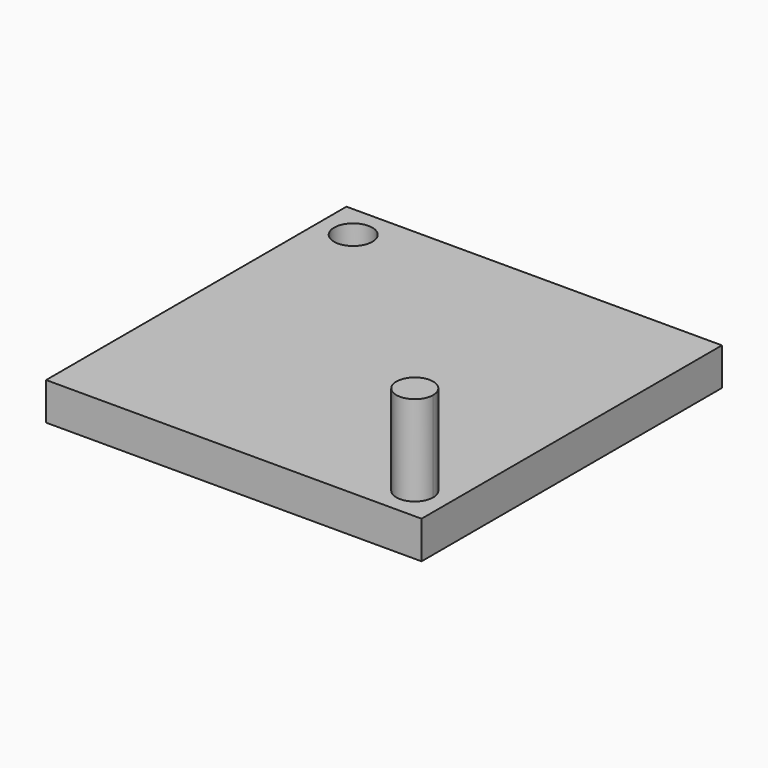
from build123d import *

# Parameters (mm, degrees)
F0_W     = 25
F0_H     = 25
F1_DEPTH = 5
F3_DEPTH = 12
F4_DEPTH = 5.001


with BuildPart() as f1:
    # F0 (on Top) → F1 (new body)
    with BuildSketch(Plane.XY):
        with Locations((-12.5, 12.5)):
            Rectangle(F0_W, F0_H)
        Polygon((25, 25), (0, 25), (0, 0), (-25, 0), (-25, -25), (25, -25), align=None)
        Polygon((25, 25), (0, 25), (0, 0), (-25, 0), (-25, -25), (25, -25), align=None)
    extrude(amount=F1_DEPTH)

    # F2 (on face) → F3 (join)
    with BuildSketch(Plane.XY.offset(5)):
        with BuildLine():
            ThreePointArc((18.7736850405, -18.7736850405), (19.5685222451, -22.7696015091), (22.9560966544, -20.5060966544))
            ThreePointArc((22.9560966544, -20.5060966544), (21.4436710637, -18.2425917998), (18.7736850405, -18.7736850405))
        make_face()
    extrude(amount=F3_DEPTH)

    # F2 (on face) → F4 (cut, through all)
    with BuildSketch(Plane.XY.offset(5)):
        with BuildLine():
            ThreePointArc((-17.9560966544, 20.5060966544), (-22.8619894623, 21.4819394069), (-18.7029743624, 18.7029743624))
            ThreePointArc((-18.7029743624, 18.7029743624), (-18.1502038465, 19.5302539019), (-17.9560966544, 20.5060966544))
        make_face()
    extrude(amount=-F4_DEPTH, mode=Mode.SUBTRACT)


solid = f1.part
